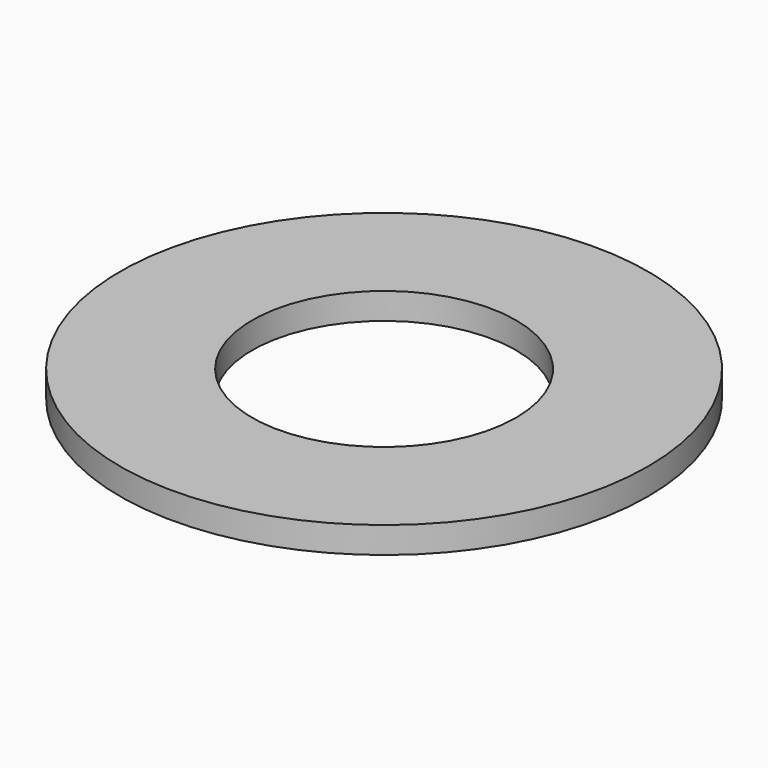
from build123d import *

# Parameters (mm, degrees)
F0_R     = 25
F0_R_2   = 12.5
F1_DEPTH = 2.5


with BuildPart() as f1:
    # F0 (on Top) → F1 (new body)
    with BuildSketch(Plane.XY):
        Circle(F0_R)
        Circle(F0_R_2, mode=Mode.SUBTRACT)
        Circle(F0_R)
        Circle(F0_R_2, mode=Mode.SUBTRACT)
    extrude(amount=-F1_DEPTH)


solid = f1.part
